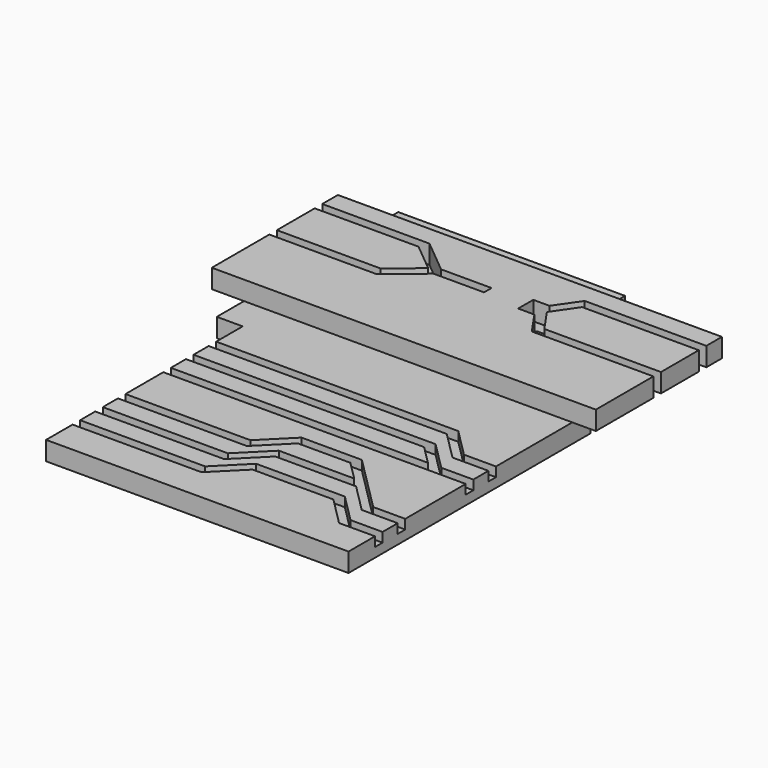
from build123d import *

# Parameters (mm, degrees)
F0_W      = 67.5092114359
F0_H      = 19.05
F1_DEPTH  = 6.35
F3_W      = 3.175
F3_H      = 3.175
F11_DEPTH = 6.351
F12_W     = 3.175
F12_H     = 3.175
F17_W     = 3.175
F17_H     = 3.175
F23_W     = 129.0142796934
F23_H     = 52.9354959726
F24_DEPTH = 6.35
F26_W     = 3.175
F26_H     = 6.35
F29_W     = 3.175
F29_H     = 6.35


with BuildPart() as f1:
    # F0 (on Top) → F1 (new body)
    with BuildSketch(Plane.XY):
        with Locations((-27.3533369526, 24.7335730806)):
            Rectangle(F0_W, F0_H)
        Polygon((40.4920573294, 34.2585730806), (6.4012687653, 34.2585730806), (6.4012687653, 15.2085730806), (-61.1079426706, 15.2085730806), (-61.1079426706, -67.3414269194), (40.4920573294, -67.3414269194), align=None)
        Polygon((-61.1079426706, 15.2085730806), (-61.1079426706, 34.2585730806), (6.4012687653, 34.2585730806), (6.4012687653, 91.4085730806), (-69.7987312347, 91.4085730806), (-69.7987312347, 15.2085730806), align=None)
    extrude(amount=-F1_DEPTH)

    # F4: sweep along a path in F2
    with BuildLine(Plane.XY) as f4_path:
        Line((40.4920573294, -54.6414269194), (29.0739262488, -54.6414269194))
        Line((29.0739262488, -54.6414269194), (19.5489262488, -45.1164269194))
        Line((19.5489262488, -45.1164269194), (-8.9234185219, -45.1164269194))
        Line((-8.9234185219, -45.1164269194), (-18.4484185219, -54.6414269194))
        Line((-18.4484185219, -54.6414269194), (-61.1079426706, -54.6414269194))
    # F3 (on face) → F4 (sweep, cut)
    with BuildSketch(Plane.YZ.offset(40.4920573294)):
        with Locations((-54.6414269194, -1.5875)):
            Rectangle(F3_W, F3_H)
    sweep(path=f4_path.line, transition=Transition.RIGHT, mode=Mode.SUBTRACT)

    # F5: sweep along a path in F2
    with BuildLine(Plane.XY) as f5_path:
        Line((40.4920573294, -45.1164269194), (29.0739262488, -45.1164269194))
        Line((29.0739262488, -45.1164269194), (19.5489262488, -35.5914269194))
        Line((19.5489262488, -35.5914269194), (-8.9234185219, -35.5914269194))
        Line((-8.9234185219, -35.5914269194), (-18.4484185219, -45.1164269194))
        Line((-18.4484185219, -45.1164269194), (-61.1079426706, -45.1164269194))
    # F3 (on face) → F5 (sweep, cut)
    with BuildSketch(Plane.YZ.offset(40.4920573294)):
        with Locations((-45.1164269194, -1.5875)):
            Rectangle(F3_W, F3_H)
    sweep(path=f5_path.line, transition=Transition.RIGHT, mode=Mode.SUBTRACT)

    # F6: sweep along a path in F2
    with BuildLine(Plane.XY) as f6_path:
        Line((40.4920573294, -45.1164269194), (29.0739262488, -45.1164269194))
        Line((29.0739262488, -45.1164269194), (19.5489262488, -35.5914269194))
        Line((19.5489262488, -35.5914269194), (10.0239262488, -26.0664269194))
        Line((10.0239262488, -26.0664269194), (-8.9234185219, -26.0664269194))
        Line((-8.9234185219, -26.0664269194), (-18.4484185219, -35.5914269194))
        Line((-18.4484185219, -35.5914269194), (-61.1079426706, -35.5914269194))
    # F3 (on face) → F6 (sweep, cut)
    with BuildSketch(Plane.YZ.offset(40.4920573294)):
        with Locations((-45.1164269194, -1.5875)):
            Rectangle(F3_W, F3_H)
    sweep(path=f6_path.line, transition=Transition.RIGHT, mode=Mode.SUBTRACT)

    # F7: sweep along a path in F2
    with BuildLine(Plane.XY) as f7_path:
        Line((40.4920573294, -16.5414269194), (29.0739262488, -16.5414269194))
        Line((29.0739262488, -16.5414269194), (-61.1079426706, -16.5414269194))
    # F3 (on face) → F7 (sweep, cut)
    with BuildSketch(Plane.YZ.offset(40.4920573294)):
        with Locations((-16.5414269194, -1.5875)):
            Rectangle(F3_W, F3_H)
    sweep(path=f7_path.line, mode=Mode.SUBTRACT)

    # F8: sweep along a path in F2
    with BuildLine(Plane.XY) as f8_path:
        Line((40.4920573294, -16.5414269194), (29.0739262488, -16.5414269194))
        Line((29.0739262488, -16.5414269194), (19.5489262488, -7.0164269194))
        Line((19.5489262488, -7.0164269194), (-61.1079426706, -7.0164269194))
    # F3 (on face) → F8 (sweep, cut)
    with BuildSketch(Plane.YZ.offset(40.4920573294)):
        with Locations((-16.5414269194, -1.5875)):
            Rectangle(F3_W, F3_H)
    sweep(path=f8_path.line, transition=Transition.RIGHT, mode=Mode.SUBTRACT)

    # F9: sweep along a path in F2
    with BuildLine(Plane.XY) as f9_path:
        Line((40.4920573294, -7.0164269194), (29.0739262488, -7.0164269194))
        Line((29.0739262488, -7.0164269194), (19.5489262488, 2.5085730806))
        Line((19.5489262488, 2.5085730806), (-61.1079426706, 2.5085730806))
    # F3 (on face) → F9 (sweep, cut)
    with BuildSketch(Plane.YZ.offset(40.4920573294)):
        with Locations((-7.0164269194, -1.5875)):
            Rectangle(F3_W, F3_H)
    sweep(path=f9_path.line, transition=Transition.RIGHT, mode=Mode.SUBTRACT)

    # F10 (on face) → F11 (cut, through all)
    with BuildSketch(Plane.XY):
        Polygon((-5.8296445429, 86.1708798528), (-38.3664250046, 86.1708798528), (-38.3664250046, 77.1361727774), (-38.3664250046, 67.6111727774), (-38.3664250046, 48.5611727774), (-38.3664250046, 39.0361727774), (-38.3664250046, 31.857633692), (-5.8296445429, 31.857633692), (-5.8296445429, 48.5611727774), (-5.8296445429, 58.0861727774), (-5.8296445429, 67.6111727774), (-5.8296445429, 77.1361727774), align=None)
    extrude(amount=-F11_DEPTH, mode=Mode.SUBTRACT)

    # F13: sweep along a path in F10
    with BuildLine(Plane.XY) as f13_path:
        Line((6.4012687653, 46.9736727774), (1.5850432101, 46.9736727774))
        Line((1.5850432101, 46.9736727774), (-0.0024567899, 48.5611727774))
        Line((-0.0024567899, 48.5611727774), (-5.8296445429, 48.5611727774))
    # F12 (on face) → F13 (sweep, cut)
    with BuildSketch(Plane.YZ.offset(6.4012687653)):
        with Locations((46.9736727774, -1.5875)):
            Rectangle(F12_W, F12_H)
    sweep(path=f13_path.line, transition=Transition.RIGHT, mode=Mode.SUBTRACT)

    # F14: sweep along a path in F10
    with BuildLine(Plane.XY) as f14_path:
        Line((6.4012687653, 59.6736727774), (1.5850432101, 59.6736727774))
        Line((1.5850432101, 59.6736727774), (-0.0024567899, 58.0861727774))
        Line((-0.0024567899, 58.0861727774), (-5.8296445429, 58.0861727774))
    # F12 (on face) → F14 (sweep, cut)
    with BuildSketch(Plane.YZ.offset(6.4012687653)):
        with Locations((59.6736727774, -1.5875)):
            Rectangle(F12_W, F12_H)
    sweep(path=f14_path.line, transition=Transition.RIGHT, mode=Mode.SUBTRACT)

    # F15: sweep along a path in F10
    with BuildLine(Plane.XY) as f15_path:
        Line((6.4012687653, 66.0236727774), (1.5850432101, 66.0236727774))
        Line((1.5850432101, 66.0236727774), (-0.0024567899, 67.6111727774))
        Line((-0.0024567899, 67.6111727774), (-5.8296445429, 67.6111727774))
    # F12 (on face) → F15 (sweep, cut)
    with BuildSketch(Plane.YZ.offset(6.4012687653)):
        with Locations((66.0236727774, -1.5875)):
            Rectangle(F12_W, F12_H)
    sweep(path=f15_path.line, transition=Transition.RIGHT, mode=Mode.SUBTRACT)

    # F16: sweep along a path in F10
    with BuildLine(Plane.XY) as f16_path:
        Line((6.4012687653, 78.7236727774), (1.5850432101, 78.7236727774))
        Line((1.5850432101, 78.7236727774), (-0.0024567899, 77.1361727774))
        Line((-0.0024567899, 77.1361727774), (-5.8296445429, 77.1361727774))
    # F12 (on face) → F16 (sweep, cut)
    with BuildSketch(Plane.YZ.offset(6.4012687653)):
        with Locations((78.7236727774, -1.5875)):
            Rectangle(F12_W, F12_H)
    sweep(path=f16_path.line, transition=Transition.RIGHT, mode=Mode.SUBTRACT)

    # F18: sweep along a path in F10
    with BuildLine(Plane.XY) as f18_path:
        Line((-69.7987312347, 39.0361727774), (-38.3664250046, 39.0361727774))
    # F17 (on face) → F18 (sweep, cut)
    with BuildSketch(Plane.YZ.offset(-38.3664250046)):
        with Locations((39.0361727774, -1.5875)):
            Rectangle(F17_W, F17_H)
    sweep(path=f18_path.line, mode=Mode.SUBTRACT)

    # F19: sweep along a path in F10
    with BuildLine(Plane.XY) as f19_path:
        Line((-69.7987312347, 48.5611727774), (-38.3664250046, 48.5611727774))
    # F17 (on face) → F19 (sweep, cut)
    with BuildSketch(Plane.YZ.offset(-38.3664250046)):
        with Locations((48.5611727774, -1.5875)):
            Rectangle(F17_W, F17_H)
    sweep(path=f19_path.line, mode=Mode.SUBTRACT)

    # F20: sweep along a path in F10
    with BuildLine(Plane.XY) as f20_path:
        Line((-38.3664250046, 67.6111727774), (-52.0776462495, 67.6111727774))
        Line((-52.0776462495, 67.6111727774), (-61.6026462495, 58.0861727774))
        Line((-61.6026462495, 58.0861727774), (-69.7987312347, 58.0861727774))
    # F17 (on face) → F20 (sweep, cut)
    with BuildSketch(Plane.YZ.offset(-38.3664250046)):
        with Locations((67.6111727774, -1.5875)):
            Rectangle(F17_W, F17_H)
    sweep(path=f20_path.line, transition=Transition.RIGHT, mode=Mode.SUBTRACT)

    # F21: sweep along a path in F10
    with BuildLine(Plane.XY) as f21_path:
        Line((-38.3664250046, 77.1361727774), (-52.0776462495, 77.1361727774))
        Line((-52.0776462495, 77.1361727774), (-61.6026462495, 67.6111727774))
        Line((-61.6026462495, 67.6111727774), (-69.7987312347, 67.6111727774))
    # F17 (on face) → F21 (sweep, cut)
    with BuildSketch(Plane.YZ.offset(-38.3664250046)):
        with Locations((77.1361727774, -1.5875)):
            Rectangle(F17_W, F17_H)
    sweep(path=f21_path.line, transition=Transition.RIGHT, mode=Mode.SUBTRACT)


with BuildPart() as f24:
    # F23 (on offset) → F24 (new body)
    with BuildSketch(Plane.XY.offset(12.7)):
        with Locations((-8.4969568998, 43.579518795)):
            Rectangle(F23_W, F23_H)
    extrude(amount=-F24_DEPTH)

    # F27: sweep along a path in F25
    with BuildLine(Plane.XY.offset(12.7)) as f27_path:
        Line((56.0101829469, 42.8565069854), (16.0025564314, 42.8565069854))
        Line((16.0025564314, 42.8565069854), (10.5101754889, 50.7940069854))
        Line((10.5101754889, 50.7940069854), (4.2281555943, 50.7940069854))
    # F26 (on face) → F27 (sweep, cut)
    with BuildSketch(Plane.YZ.offset(56.0101829469)):
        with Locations((42.8565069854, 9.525)):
            Rectangle(F26_W, F26_H)
    sweep(path=f27_path.line, transition=Transition.RIGHT, mode=Mode.SUBTRACT)

    # F28: sweep along a path in F25
    with BuildLine(Plane.XY.offset(12.7)) as f28_path:
        Line((56.0101829469, 61.9065069854), (16.0025564314, 61.9065069854))
        Line((16.0025564314, 61.9065069854), (10.5101754889, 53.9690069854))
        Line((10.5101754889, 53.9690069854), (4.2281555943, 53.9690069854))
    # F26 (on face) → F28 (sweep, cut)
    with BuildSketch(Plane.YZ.offset(56.0101829469)):
        with Locations((61.9065069854, 9.525)):
            Rectangle(F26_W, F26_H)
    sweep(path=f28_path.line, transition=Transition.RIGHT, mode=Mode.SUBTRACT)

    # F30: sweep along a path in F25
    with BuildLine(Plane.XY.offset(12.7)) as f30_path:
        Line((-73.0040967464, 61.9065069854), (-37.551264533, 61.9065069854))
        Line((-37.551264533, 61.9065069854), (-26.0349071953, 52.3815069854))
        Line((-26.0349071953, 52.3815069854), (-8.4969559684, 52.3815069854))
    # F29 (on face) → F30 (sweep, cut)
    with BuildSketch(Plane(origin=(-73.0040967464, 0, 0), x_dir=(0, -1, 0), z_dir=(-1, 0, 0))):
        with Locations((-61.9065069854, 9.525)):
            Rectangle(F29_W, F29_H)
    sweep(path=f30_path.line, transition=Transition.RIGHT, mode=Mode.SUBTRACT)

    # F31: sweep along a path in F25
    with BuildLine(Plane.XY.offset(12.7)) as f31_path:
        Line((-73.0040967464, 42.8565069854), (-37.551264533, 42.8565069854))
        Line((-37.551264533, 42.8565069854), (-26.0349071953, 52.3815069854))
    # F29 (on face) → F31 (sweep, cut)
    with BuildSketch(Plane(origin=(-73.0040967464, 0, 0), x_dir=(0, -1, 0), z_dir=(-1, 0, 0))):
        with Locations((-42.8565069854, 9.525)):
            Rectangle(F29_W, F29_H)
    sweep(path=f31_path.line, transition=Transition.RIGHT, mode=Mode.SUBTRACT)


solid = Compound([f1.part, f24.part])
